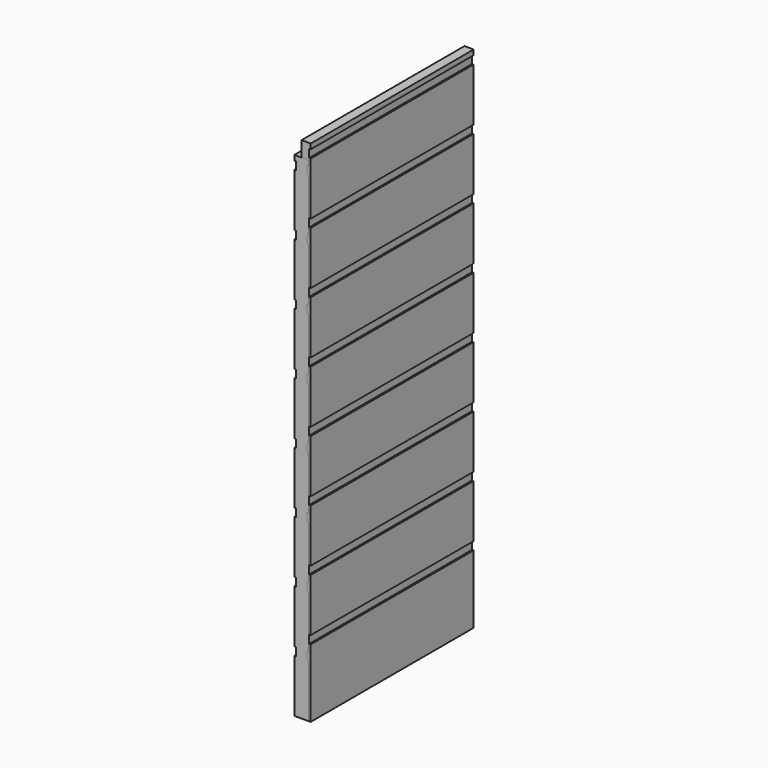
from build123d import *

# Parameters (mm, degrees)
F1_DEPTH = 400
F3_DEPTH = 400


with BuildPart() as f1:
    # F0 (on Front) → F1 (new body)
    with BuildSketch(Plane.XZ):
        Polygon((0, 1000), (0, 0), (18, 0), (18, 30), (18, 134), (15, 134), (15, 150), (18, 150), (18, 254), (15, 254), (15, 270), (18, 270), (18, 374), (15, 374), (15, 390), (18, 390), (18, 494), (15, 494), (15, 510), (18, 510), (18, 614), (15, 614), (15, 630), (18, 630), (18, 734), (15, 734), (15, 750), (18, 750), (18, 854), (15, 854), (15, 870), (18, 870), (18, 974), (15, 974), (15, 990), (18, 990), (18, 1000), align=None)
    extrude(amount=-F1_DEPTH)


with BuildPart() as f3:
    # F2 (on Front) → F3 (new body)
    with BuildSketch(Plane.XZ):
        Polygon((14, 970), (0, 970), (-14, 970), (-14, 960), (-11, 960), (-11, 944), (-14, 944), (-14, 840), (-11, 840), (-11, 824), (-14, 824), (-14, 720), (-11, 720), (-11, 704), (-14, 704), (-14, 600), (-11, 600), (-11, 584), (-14, 584), (-14, 480), (-11, 480), (-11, 464), (-14, 464), (-14, 360), (-11, 360), (-11, 344), (-14, 344), (-14, 240), (-11, 240), (-11, 224), (-14, 224), (-14, 120), (-11, 120), (-11, 104), (-14, 104), (-14, 0), (0, 0), (14, 0), (14, 104), (11, 104), (11, 120), (14, 120), (14, 224), (11, 224), (11, 240), (14, 240), (14, 344), (11, 344), (11, 360), (14, 360), (14, 464), (11, 464), (11, 480), (14, 480), (14, 584), (11, 584), (11, 600), (14, 600), (14, 704), (11, 704), (11, 720), (14, 720), (14, 824), (11, 824), (11, 840), (14, 840), (14, 944), (11, 944), (11, 960), (14, 960), align=None)
    extrude(amount=-F3_DEPTH)


solid = Compound([f1.part, f3.part])
